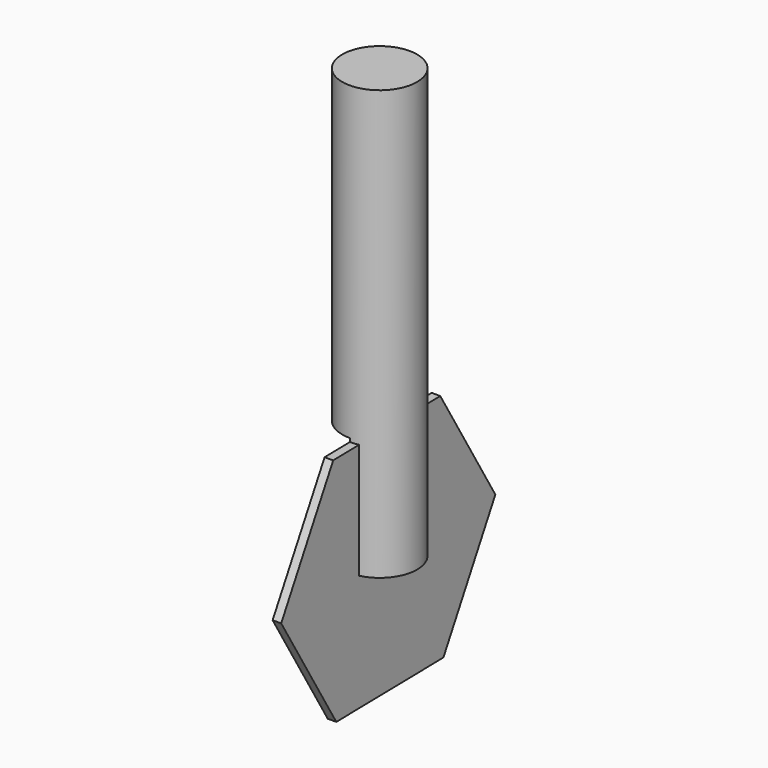
from build123d import *

# Parameters (mm, degrees)
F0_R          = 11.060744
F1_DEPTH      = 127
F3_DEPTH      = 2.54
F4_W          = 12.080216
F4_H          = 35.164498
F5_DEPTH      = 39.601066
F5_DEPTH_BACK = 25.4


with BuildPart() as f1:
    # F0 (on Top) → F1 (new body)
    with BuildSketch(Plane.XY):
        Circle(F0_R)
    extrude(amount=F1_DEPTH)

    # F2 (on Right) → F3 (join)
    with BuildSketch(Plane.YZ):
        Polygon((20.383448, -33.957828), (39.600066, 0.67367), (19.216617, 34.631498), (-20.383448, 33.957828), (-39.600066, -0.67367), (-19.216617, -34.631498), align=None)
    extrude(amount=F3_DEPTH)

    # F4 (on Front) → F5 (cut, two sides)
    with BuildSketch(Plane.XZ) as f5_sk:
        with Locations((-6.040108, 17.582249)):
            Rectangle(F4_W, F4_H)
    extrude(amount=F5_DEPTH, mode=Mode.SUBTRACT)
    extrude(f5_sk.sketch, amount=-F5_DEPTH_BACK, mode=Mode.SUBTRACT)


solid = f1.part
